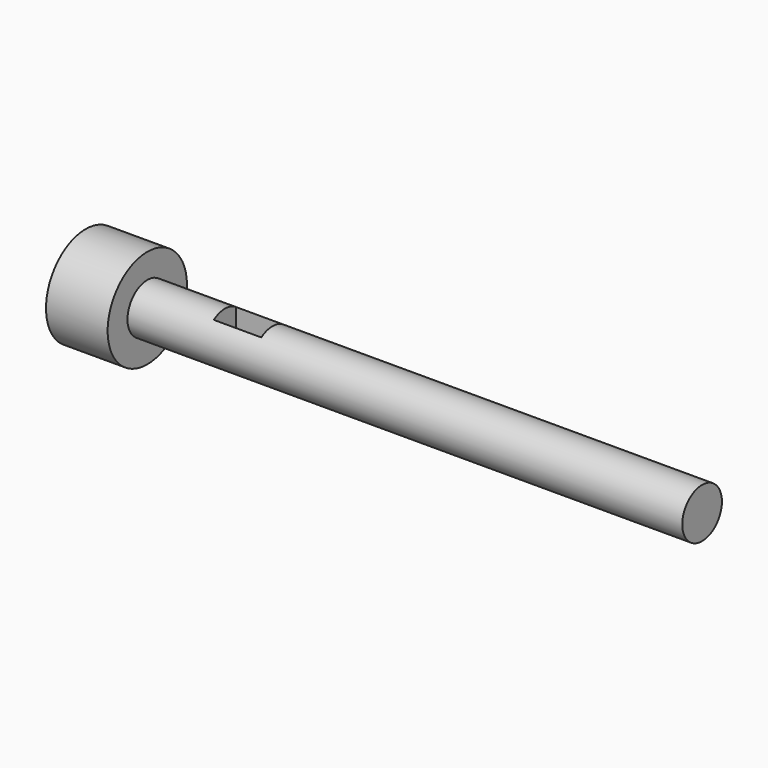
from build123d import *

# Parameters (mm, degrees)
F0_W     = 10
F0_H     = 4.0220445953
F0_W_2   = 90
F2_W     = 7.713583298
F2_H     = 4.518811591
F3_DEPTH = 10


with BuildPart() as f1:
    # F0 (on Top) → F1 (revolve)
    with BuildSketch(Plane.XY):
        with Locations((-17.5921608508, 6.033066893)):
            Rectangle(F0_W, F0_H)
        with Locations((-17.5921608508, 2.0110222977)):
            Rectangle(F0_W, F0_H)
        with Locations((32.4078391492, 2.0110222977)):
            Rectangle(F0_W_2, F0_H)
    revolve(axis=Axis((14.6210342646, 0, 0), (1, 0, 0)))

    # F2 (on Top) → F3 (cut)
    with BuildSketch(Plane.XY):
        with Locations((3.856791649, 0)):
            Rectangle(F2_W, F2_H)
    extrude(amount=F3_DEPTH, mode=Mode.SUBTRACT)


solid = f1.part
